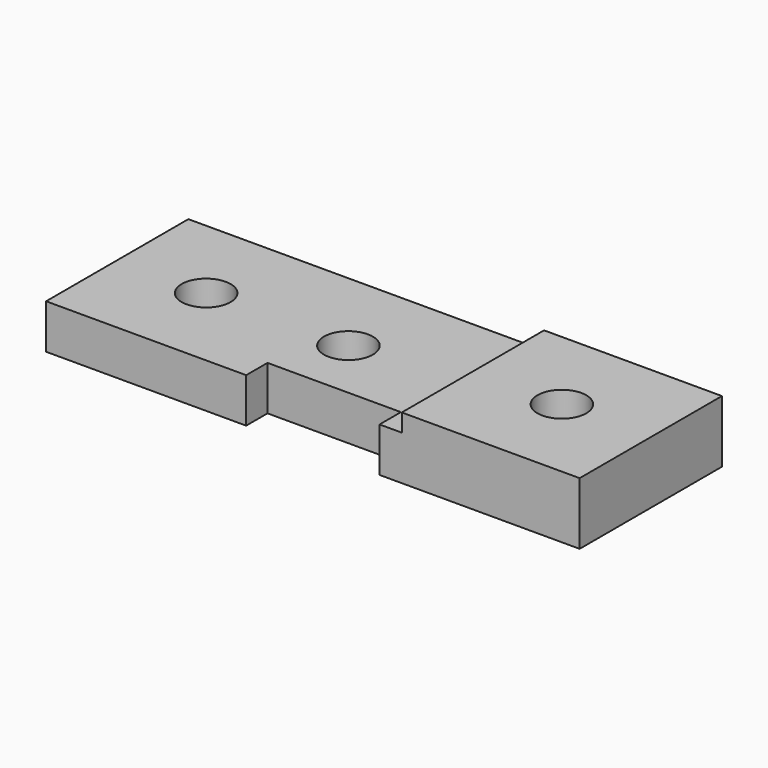
from build123d import *

# Parameters (mm, degrees)
F0_W     = 20
F0_H     = 20
F1_DEPTH = 5
F2_DEPTH = 2
F4_D     = 5.5


with BuildPart() as f1:
    # F0 (on Top) → F1 (new body)
    with BuildSketch(Plane.XY):
        Polygon((10, 10), (-30, 10), (-30, -10), (-7.5, -10), (-7.5, -7), (7.5, -7), (7.5, -10), (10, -10), align=None)
        with Locations((20, 0)):
            Rectangle(F0_W, F0_H)
        Polygon((10, 10), (-30, 10), (-30, -10), (-7.5, -10), (-7.5, -7), (7.5, -7), (7.5, -10), (10, -10), align=None)
    extrude(amount=-F1_DEPTH)

    # F0 (on Top) → F2 (join)
    with BuildSketch(Plane.XY):
        with Locations((20, 0)):
            Rectangle(F0_W, F0_H)
    extrude(amount=F2_DEPTH)

    # F4 (through all)
    with Locations(Plane(origin=(0, 0, -5), x_dir=(1, 0, 0), z_dir=(0, 0, -1))):
        with Locations((-20, 0), (20, 0), (-4, 0)):
            Hole(F4_D / 2)


solid = f1.part
